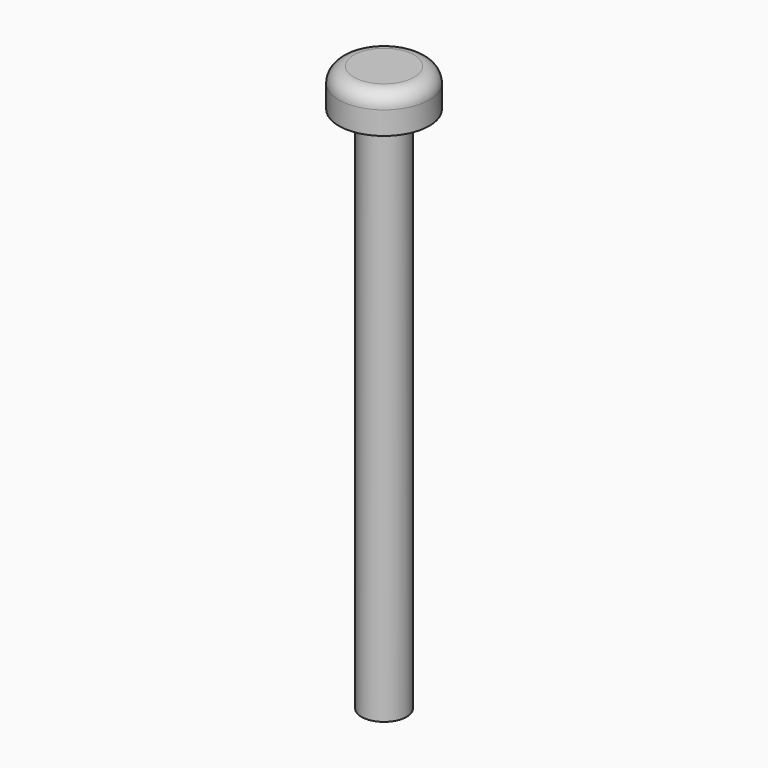
from build123d import *

# Parameters (mm, degrees)
F0_R     = 1.5
F2_DEPTH = 35
F1_R     = 3
F3_DEPTH = 2.52
F4_R     = 1


with BuildPart() as f2:
    # F0 (on Top) → F2 (new body)
    with BuildSketch(Plane.XY):
        Circle(F0_R)
    extrude(amount=-F2_DEPTH)

    # F1 (on Top) → F3 (join)
    with BuildSketch(Plane.XY):
        Circle(F1_R)
    extrude(amount=F3_DEPTH)

    # F4
    f4_edges = [f2.edges().sort_by_distance(p)[0] for p in [
        (-3, 0, 2.52),
    ]]
    fillet(f4_edges, radius=F4_R)


solid = f2.part
